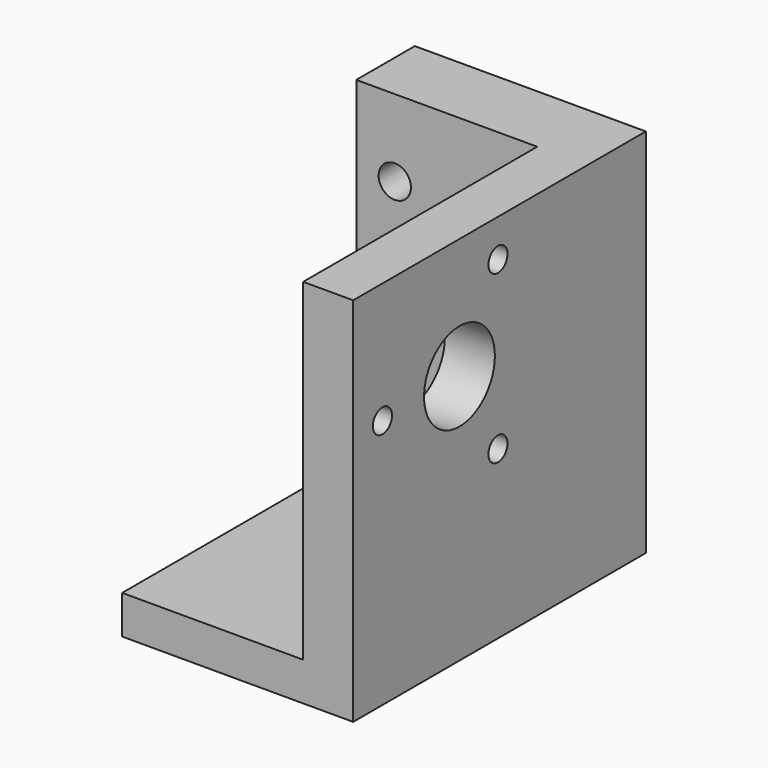
from build123d import *

# Parameters (mm, degrees)
BOX_W           = 100
BOX_H           = 6
BOX_DEPTH       = 76.7
SKETCH_W        = 60
SKETCH_H        = 95
PAD_DEPTH       = 96.4
SKETCH001_W     = 90
SKETCH001_H     = 90
POCKET_DEPTH    = 86.4
SKETCH003_R     = 11.5
SKETCH003_R_2   = 3.1
POCKET001_DEPTH = 20
SKETCH004_R     = 4.2
POCKET002_DEPTH = 13


with BuildPart() as crossbeam_slot:
    # Box → Box (new body)
    with BuildSketch(Plane(origin=(-100, 0, 10), x_dir=(1, 0, 0), z_dir=(0, 0, 1))):
        with Locations((50, 3)):
            Rectangle(BOX_W, BOX_H)
    extrude(amount=BOX_DEPTH)


with BuildPart() as pocket002:
    # Sketch → Pad (new body)
    with BuildSketch(Plane.XY):
        with Locations((-20, -41.5)):
            Rectangle(SKETCH_W, SKETCH_H)
    extrude(amount=PAD_DEPTH)

    # Cut: cut Crossbeam Slot
    add(crossbeam_slot.part, mode=Mode.SUBTRACT)

    # Sketch001 → Pocket (cut)
    with BuildSketch(Plane.XY.offset(96.4)):
        with Locations((-48, -58)):
            Rectangle(SKETCH001_W, SKETCH001_H)
    extrude(amount=-POCKET_DEPTH, mode=Mode.SUBTRACT)

    # Sketch003 → Pocket001 (cut)
    with BuildSketch(Plane.YZ.offset(10)):
        with Locations((-54.5, 65)):
            Circle(SKETCH003_R)
        with Locations((-42, 43.349365)):
            Circle(SKETCH003_R_2)
        with Locations((-42, 86.650635)):
            Circle(SKETCH003_R_2)
        with Locations((-79.5, 65)):
            Circle(SKETCH003_R_2)
    extrude(amount=-POCKET001_DEPTH, mode=Mode.SUBTRACT)

    # Sketch004 → Pocket002 (cut)
    with BuildSketch(Plane(origin=(0, 0, 0), x_dir=(-1, 0, 0), z_dir=(0, 1, 0))):
        with Locations((8, 76.4)):
            Circle(SKETCH004_R)
        with Locations((40, 76.4)):
            Circle(SKETCH004_R)
        with Locations((8, 20)):
            Circle(SKETCH004_R)
        with Locations((40, 20)):
            Circle(SKETCH004_R)
    extrude(amount=-POCKET002_DEPTH, mode=Mode.SUBTRACT)


solid = pocket002.part
